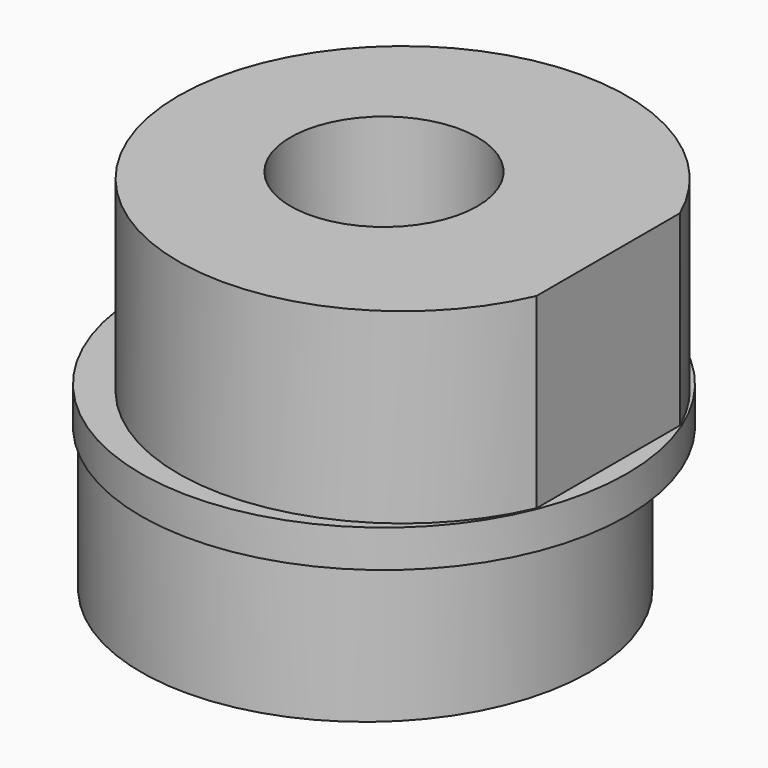
from build123d import *

# Parameters (mm, degrees)
SKETCH_R      = 2.5
PAD_DEPTH     = 5
SKETCH001_R   = 6.5
SKETCH001_R_2 = 2.5
PAD001_DEPTH  = 1
SKETCH002_R   = 2.5
PAD002_DEPTH  = 4


with BuildPart() as part:
    # Sketch → Pad (new body)
    with BuildSketch(Plane.XY):
        with BuildLine():
            Line((6, 2.397916), (6, -2.397916))
            ThreePointArc((6, 2.397916), (-5.5, 0), (6, -2.397916))
        make_face()
        Circle(SKETCH_R, mode=Mode.SUBTRACT)
    extrude(amount=-PAD_DEPTH)

    # Sketch001 (on Face5 of Pad) → Pad001 (join)
    with BuildSketch(Plane(origin=(0, 0, -5), x_dir=(1, 0, 0), z_dir=(0, 0, -1))):
        Circle(SKETCH001_R)
        Circle(SKETCH001_R_2, mode=Mode.SUBTRACT)
    extrude(amount=PAD001_DEPTH)

    # Sketch002 (on Face8 of Pad001) → Pad002 (join)
    with BuildSketch(Plane(origin=(0, 0, -6), x_dir=(1, 0, 0), z_dir=(0, 0, -1))):
        with BuildLine():
            ThreePointArc((-6, -2.397916), (5.5, 0), (-6, 2.397916))
            Line((-6, 2.397916), (-6, -2.397916))
        make_face()
        Circle(SKETCH002_R, mode=Mode.SUBTRACT)
    extrude(amount=PAD002_DEPTH)


solid = part.part
